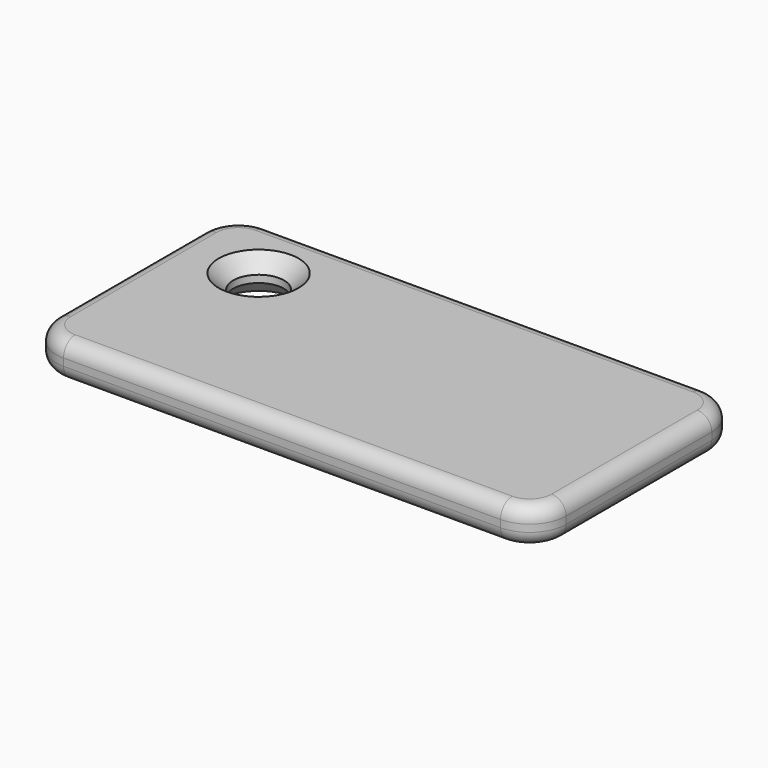
from build123d import *

# Parameters (mm, degrees)
F1_DEPTH = 5
F2_R     = 2
F3_R     = 3.489171
F4_DEPTH = 25
F5_SIZE  = 2


with BuildPart() as f1:
    # F0 (on Top) → F1 (new body)
    with BuildSketch(Plane.XY):
        with BuildLine():
            ThreePointArc((20.69192, -10.30399), (19.227454, -6.768456), (15.69192, -5.30399))
            Line((15.69192, -5.30399), (-44.30808, -5.30399))
            ThreePointArc((-44.30808, -5.30399), (-47.843614, -6.768456), (-49.30808, -10.30399))
            Line((-49.30808, -10.30399), (-49.30808, -35.30399))
            ThreePointArc((-49.30808, -35.30399), (-47.843614, -38.839524), (-44.30808, -40.30399))
            Line((-44.30808, -40.30399), (15.69192, -40.30399))
            ThreePointArc((15.69192, -40.30399), (19.227454, -38.839524), (20.69192, -35.30399))
            Line((20.69192, -35.30399), (20.69192, -10.30399))
        make_face()
    extrude(amount=F1_DEPTH)

    # F2
    f2_edges = [f1.edges().sort_by_distance(p)[0] for p in [
        (-49.30808, -22.80399, 5),
        (-49.30808, -22.80399, 0),
    ]]
    fillet(f2_edges, radius=F2_R)

    # F3 (on face) → F4 (cut)
    with BuildSketch(Plane.XY.offset(5)):
        with Locations((-37.874322, -14.863885)):
            Circle(F3_R)
    extrude(amount=-F4_DEPTH, mode=Mode.SUBTRACT)

    # F5
    f5_edges = [f1.edges().sort_by_distance(p)[0] for p in [
        (-41.363493, -14.863885, 5),
        (-47.30808, -22.80399, 0),
        (-46.429401, -8.18267, 0),
        (-46.429401, -37.425311, 0),
        (-14.30808, -7.30399, 0),
        (-14.30808, -38.30399, 0),
        (17.81324, -8.18267, 0),
        (17.81324, -37.425311, 0),
        (18.69192, -22.80399, 0),
        (-41.363493, -14.863885, 0),
    ]]
    chamfer(f5_edges, length=F5_SIZE)


solid = f1.part
